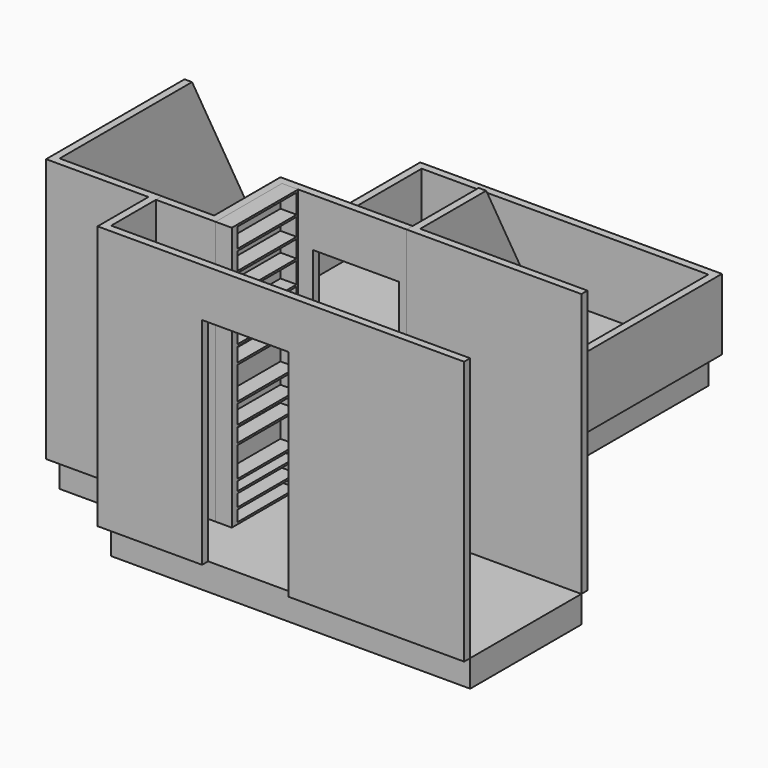
from build123d import *

# Parameters (mm, degrees)
F0_W      = 95
F0_H      = 70
F0_W_2    = 51
F0_H_2    = 59
F1_DEPTH  = 25
F3_DEPTH  = 245
F5_DEPTH  = 245
F6_W      = 80
F6_H      = 200
F7_DEPTH  = 25
F8_W      = 210
F8_H      = 200
F9_DEPTH  = 7
F10_W     = 200
F10_H     = 180
F11_DEPTH = 20
F13_DEPTH = 435.1790014882
F14_W     = 80
F14_H     = 200
F15_DEPTH = 25
F16_W     = 77
F16_H     = 245
F16_W_2   = 68.4
F16_H_2   = 10.2841026306
F16_H_3   = 11.3519883871
F16_H_4   = 8.3111382246
F16_H_5   = 27.5120890856
F16_H_6   = 13.0481279612
F16_H_7   = 17.2495550632
F16_H_8   = 29.9851752043
F16_H_9   = 13.1993598461
F16_H_10  = 19.1645032883
F16_H_11  = 19.3067646742
F16_H_12  = 16.0344398737
F16_H_13  = 16.2738270283
F16_H_14  = 18.0789287329
F17_DEPTH = 15


with BuildPart() as f1:
    # F0 (on Top) → F1 (new body)
    with BuildSketch(Plane.XY):
        Polygon((133, -175), (133, 175), (-133, 175), (-133, -175), (-38, -175), (13, -175), (45, -175), align=None)
        Polygon((295.1780014882, -175), (133, -175), (45, -175), (13, -175), (13, -245), (13, -304), (295.1780014882, -304), align=None)
        with Locations((-85.5, -210)):
            Rectangle(F0_W, F0_H)
        with Locations((-12.5, -210)):
            Rectangle(F0_W_2, F0_H)
        with Locations((-12.5, -274.5)):
            Rectangle(F0_W_2, F0_H_2)
    extrude(amount=F1_DEPTH)


with BuildPart() as f3:
    # F2 (on face) → F3 (new body)
    with BuildSketch(Plane.XY.offset(25)):
        Polygon((-45, -311), (295.1780014882, -311), (295.1780014882, -304), (-38, -304), (-38, -245), (-133, -245), (-133, 175), (133, 175), (133, -175), (295.1780014882, -175), (295.1780014882, -168), (140, -168), (140, 182), (-140, 182), (-140, -252), (-45, -252), align=None)
    extrude(amount=F3_DEPTH)

    # F12 (on face) → F13 (cut, through all)
    with BuildSketch(Plane(origin=(-140, 0, 0), x_dir=(0, -1, 0), z_dir=(-1, 0, 0))):
        Polygon((-215.9370332956, 327.1400332451), (-215.9370332956, 90.94594419), (0, 90.94594419), (91.4338827133, 270), (91.4338827133, 327.1400332451), align=None)
    extrude(amount=-F13_DEPTH, mode=Mode.SUBTRACT)

    # F14 (on face) → F15 (cut)
    with BuildSketch(Plane(origin=(0, -304, 0), x_dir=(-1, 0, 0), z_dir=(0, 1, 0))):
        with Locations((-92, 125)):
            Rectangle(F14_W, F14_H)
    extrude(amount=-F15_DEPTH, mode=Mode.SUBTRACT)


with BuildPart() as f5:
    # F4 (on face) → F5 (new body, through all)
    with BuildSketch(Plane.XY.offset(25)):
        Polygon((17.349066928, -175), (133, -175), (133, -168), (10.349066928, -168), (10.349066928, -245), (-38, -245), (-38, -252), (17.349066928, -252), align=None)
    extrude(amount=F5_DEPTH)

    # F6 (on face) → F7 (cut)
    with BuildSketch(Plane(origin=(0, -168, 0), x_dir=(-1, 0, 0), z_dir=(0, 1, 0))):
        with Locations((-86, 125)):
            Rectangle(F6_W, F6_H)
    extrude(amount=-F7_DEPTH, mode=Mode.SUBTRACT)


with BuildPart() as f9:
    # F8 (on face) → F9 (new body)
    with BuildSketch(Plane.XY.offset(25)):
        with Locations((-28, 15.7558605075)):
            Rectangle(F8_W, F8_H)
    extrude(amount=F9_DEPTH)

    # F10 (on face) → F11 (join)
    with BuildSketch(Plane.XY.offset(32)):
        with Locations((-33, 15.7558605075)):
            Rectangle(F10_W, F10_H)
    extrude(amount=F11_DEPTH)


with BuildPart() as f17:
    # F16 (on face) → F17 (new body)
    with BuildSketch(Plane.YZ.offset(17.349066928)):
        with Locations((-213.5, 147.5)):
            Rectangle(F16_W, F16_H)
        with Locations((-211, 31.9420513153)):
            Rectangle(F16_W_2, F16_H_2, mode=Mode.SUBTRACT)
        with Locations((-211, 44.5600968242)):
            Rectangle(F16_W_2, F16_H_3, mode=Mode.SUBTRACT)
        with Locations((-211, 56.19166013)):
            Rectangle(F16_W_2, F16_H_4, mode=Mode.SUBTRACT)
        with Locations((-211, 75.9032737851)):
            Rectangle(F16_W_2, F16_H_5, mode=Mode.SUBTRACT)
        with Locations((-211, 97.9833823085)):
            Rectangle(F16_W_2, F16_H_6, mode=Mode.SUBTRACT)
        with Locations((-211, 114.9322238207)):
            Rectangle(F16_W_2, F16_H_7, mode=Mode.SUBTRACT)
        with Locations((-211, 140.3495889544)):
            Rectangle(F16_W_2, F16_H_8, mode=Mode.SUBTRACT)
        with Locations((-211, 163.7418564796)):
            Rectangle(F16_W_2, F16_H_9, mode=Mode.SUBTRACT)
        with Locations((-211, 181.7237880468)):
            Rectangle(F16_W_2, F16_H_10, mode=Mode.SUBTRACT)
        with Locations((-211, 202.7594220281)):
            Rectangle(F16_W_2, F16_H_11, mode=Mode.SUBTRACT)
        with Locations((-211, 222.230024302)):
            Rectangle(F16_W_2, F16_H_12, mode=Mode.SUBTRACT)
        with Locations((-211, 240.184157753)):
            Rectangle(F16_W_2, F16_H_13, mode=Mode.SUBTRACT)
        with Locations((-211, 259.1605356336)):
            Rectangle(F16_W_2, F16_H_14, mode=Mode.SUBTRACT)
    extrude(amount=F17_DEPTH)


solid = Compound([f1.part, f3.part, f5.part, f9.part, f17.part])
